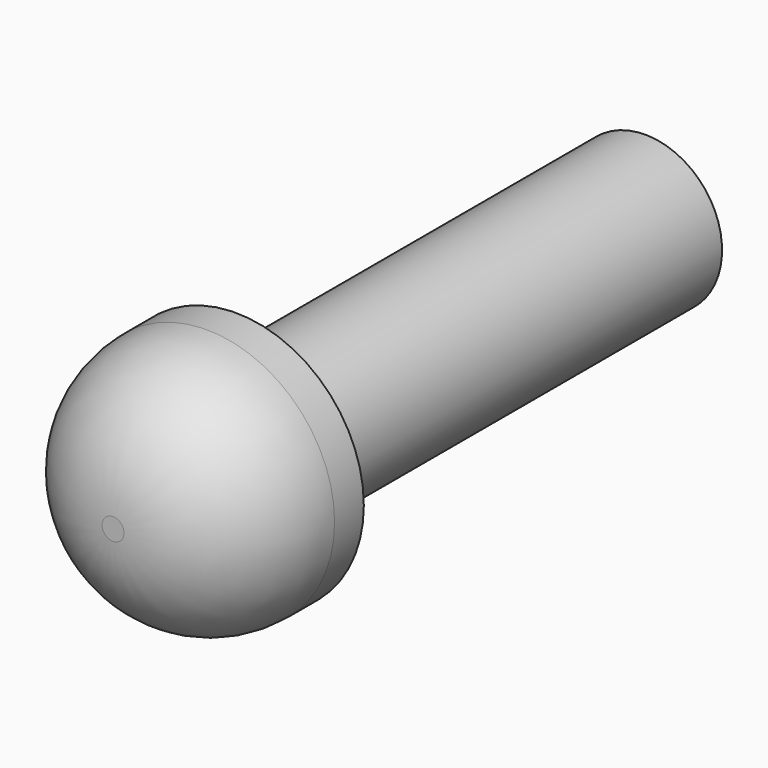
from build123d import *

# Parameters (mm, degrees)
F0_R     = 2.5
F1_DEPTH = 3
F2_R     = 1.5
F3_DEPTH = 10
F4_R     = 2.286


with BuildPart() as f1:
    # F0 (on Front) → F1 (new body)
    with BuildSketch(Plane.XZ):
        Circle(F0_R)
        Circle(F0_R)
    extrude(amount=F1_DEPTH)

    # F2 (on face) → F3 (join)
    with BuildSketch(Plane(origin=(0, 0, 0), x_dir=(-1, 0, 0), z_dir=(0, 1, 0))):
        Circle(F2_R)
    extrude(amount=F3_DEPTH)

    # F4
    f4_edges = [f1.edges().sort_by_distance(p)[0] for p in [
        (-2.5, -3, 0),
    ]]
    fillet(f4_edges, radius=F4_R)


solid = f1.part
